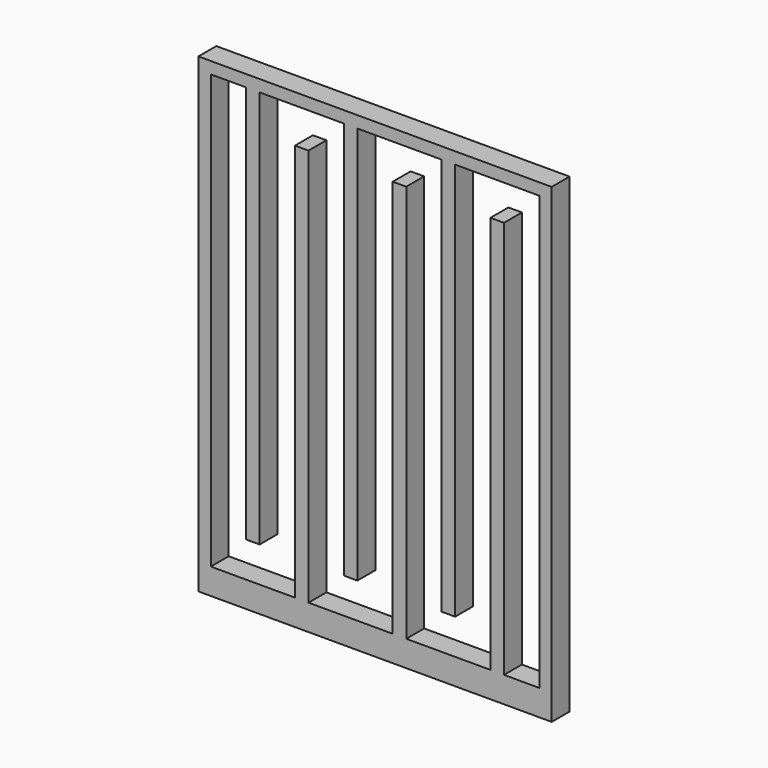
from build123d import *

# Parameters (mm, degrees)
F0_W     = 300
F0_H     = 400
F1_DEPTH = 19
F3_DEPTH = 19


with BuildPart() as f1:
    # F0 (on Front) → F1 (new body)
    with BuildSketch(Plane.XZ):
        with Locations((-168.069348, -3.528527)):
            Rectangle(F0_W, F0_H)
    extrude(amount=F1_DEPTH)

    # F2 (on face) → F3 (cut)
    with BuildSketch(Plane(origin=(0, 0, 0), x_dir=(-1, 0, 0), z_dir=(0, 1, 0))):
        Polygon((28.569348, 186.471473), (28.569348, -181.528527), (58.569348, -181.528527), (58.569348, 156.471473), (70.069348, 156.471473), (70.069348, -181.528527), (141.569348, -181.528527), (141.569348, 156.471473), (153.069348, 156.471473), (153.069348, -181.528527), (224.569348, -181.528527), (224.569348, 156.471473), (236.069348, 156.471473), (236.069348, -181.528527), (307.569348, -181.528527), (307.569348, 186.471473), (277.569348, 186.471473), (277.569348, -151.528527), (266.069348, -151.528527), (266.069348, 186.471473), (194.569348, 186.471473), (194.569348, -151.528527), (183.069348, -151.528527), (183.069348, 186.471473), (111.569348, 186.471473), (111.569348, -151.528527), (100.069348, -151.528527), (100.069348, 186.471473), align=None)
    extrude(amount=-F3_DEPTH, mode=Mode.SUBTRACT)


solid = f1.part
